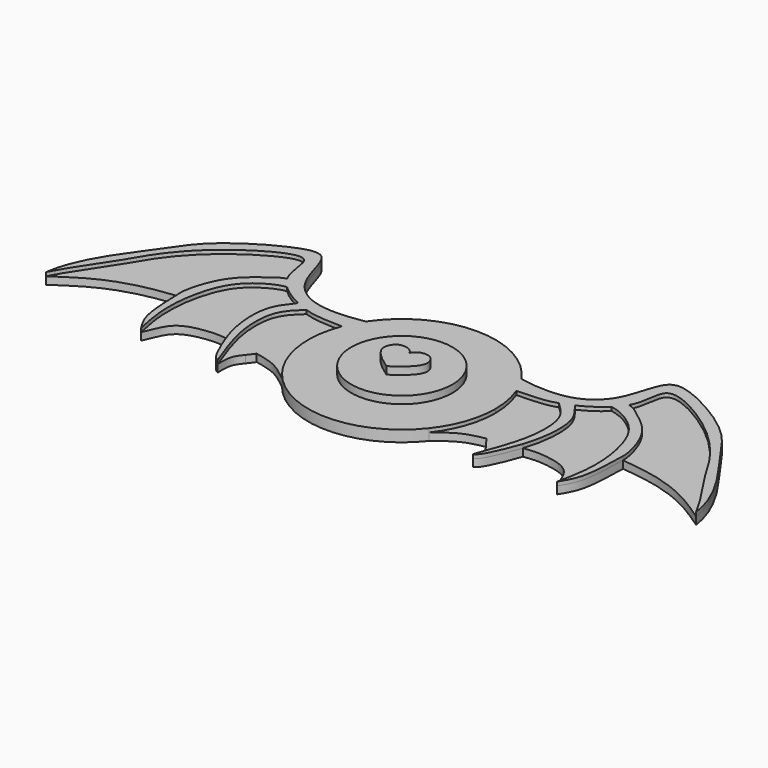
from build123d import *

# Parameters (mm, degrees)
F1_DEPTH = 3
F2_R     = 13.5064277213
F3_DEPTH = 5
F4_DEPTH = 2
F5_DEPTH = 3
F7_DEPTH = 2


with BuildPart() as f1:
    # F0 (on Top) → F1 (new body)
    with BuildSketch(Plane.XY):
        with BuildLine():
            ThreePointArc((-19.6218875172, -15.4913372651), (0, -25), (19.6218875172, -15.4913372651))
            add(Edge.make_bspline(
                [(20.7636337812, 13.92377507), (18.884492427, 12.8973675107), (13.2694896297, 9.830391573), (17.0839746859, -5.3747888898), (19.6218875172, -15.4913372651)],
                knots=[0, 0, 0, 0, 0.3346643665, 1, 1, 1, 1], degree=3))
            ThreePointArc((20.7636337812, 13.92377507), (0, 25), (-20.7636337812, 13.92377507))
            add(Edge.make_bspline(
                [(-20.7636337812, 13.92377507), (-18.884492427, 12.8973675107), (-13.2694896297, 9.830391573), (-17.0839746859, -5.3747888898), (-19.6218875172, -15.4913372651)],
                knots=[0, 0, 0, 0, 0.3346643665, 1, 1, 1, 1], degree=3))
        make_face()
        with BuildLine():
            ThreePointArc((19.6218875172, -15.4913372651), (23.61723087, -8.1991710578), (25, 0))
            ThreePointArc((25, 0), (24.5689951544, 4.6221723357), (23.2908418319, 9.0849703775))
            ThreePointArc((23.2908418319, 9.0849703775), (22.1597092287, 11.5735598197), (20.7636337812, 13.92377507))
            add(Edge.make_bspline(
                [(20.7636337812, 13.92377507), (18.884492427, 12.8973675107), (13.2694896297, 9.830391573), (17.0839746859, -5.3747888898), (19.6218875172, -15.4913372651)],
                knots=[0, 0, 0, 0, 0.3346643665, 1, 1, 1, 1], degree=3))
        make_face()
        with BuildLine():
            ThreePointArc((-23.2908418319, 9.0849703775), (-24.7259844978, -3.6912993126), (-19.6218875172, -15.4913372651))
            add(Edge.make_bspline(
                [(-20.7636337812, 13.92377507), (-18.884492427, 12.8973675107), (-13.2694896297, 9.830391573), (-17.0839746859, -5.3747888898), (-19.6218875172, -15.4913372651)],
                knots=[0, 0, 0, 0, 0.3346643665, 1, 1, 1, 1], degree=3))
            ThreePointArc((-20.7636337812, 13.92377507), (-22.1597092287, 11.5735598197), (-23.2908418319, 9.0849703775))
        make_face()
    extrude(amount=F1_DEPTH)

    # F2 (on Top) → F3 (join)
    with BuildSketch(Plane.XY):
        Circle(F2_R)
    extrude(amount=F3_DEPTH)

    # F0 (on Top) → F4 (join)
    with BuildSketch(Plane.XY):
        with BuildLine():
            ThreePointArc((20.7636337812, 13.92377507), (22.1597092287, 11.5735598197), (23.2908418319, 9.0849703775))
            add(Edge.make_bspline(
                [(23.2908418319, 9.0849703775), (27.8215143515, 9.3257680742), (30.2320226011, 9.1590800923), (33.7177366018, 10.2821364999)],
                knots=[0, 0, 0, 0, 0.1231403921, 0.1231403921, 0.1231403921, 0.1231403921], degree=3))
            add(Edge.make_bspline(
                [(33.7177366018, 10.2821364999), (34.7454077104, 10.6132401484), (35.866536795, 11.0564496893), (37.004531993, 11.5978625395)],
                knots=[0.1231403921, 0.1231403921, 0.1231403921, 0.1231403921, 0.1594450984, 0.1594450984, 0.1594450984, 0.1594450984], degree=3))
            add(Edge.make_bspline(
                [(37.004531993, 11.5978625395), (39.2474500295, 12.6649537267), (41.555886116, 14.1135251746), (43.3434300018, 15.8371345407)],
                knots=[0.1594450984, 0.1594450984, 0.1594450984, 0.1594450984, 0.2309994255, 0.2309994255, 0.2309994255, 0.2309994255], degree=3))
            add(Edge.make_bspline(
                [(43.3434300018, 15.8371345407), (44.2810928585, 16.7412603051), (45.0754287668, 17.7210645793), (45.641798526, 18.7611840665)],
                knots=[0.2309994255, 0.2309994255, 0.2309994255, 0.2309994255, 0.2685335165, 0.2685335165, 0.2685335165, 0.2685335165], degree=3))
            add(Edge.make_bspline(
                [(45.641798526, 18.7611840665), (47.3352689159, 21.8711868955), (46.777744727, 27.7747473366), (51.8560066338, 29.065553317), (66.3600577374, 20.2512677808), (74.7298542288, 9.6960609054), (77.7930462557, 3.5527051654), (84.7415977894, -6.1442317778), (86.8003591895, -10.2821364999)],
                knots=[0.2685335165, 0.2685335165, 0.2685335165, 0.2685335165, 0.3807620926, 0.4500912377, 0.6051903106, 0.7450551623, 0.8470726585, 1, 1, 1, 1], degree=3))
            add(Edge.make_bspline(
                [(20.7636337812, 13.92377507), (25.353260156, 13.083604301), (34.3722799665, 12.4739559617), (43.1666874947, 19.3658325346), (44.7883389447, 31.8865702273), (51.6235191398, 32.3410311281), (68.757647719, 22.5890249267), (75.2339965242, 11.4273433149), (85.5971213344, -1.5157287213), (86.8003591895, -10.2821364999)],
                knots=[0, 0, 0, 0, 0.1438051462, 0.2702269745, 0.4006587664, 0.4888335416, 0.6586500337, 0.8053535671, 1, 1, 1, 1], degree=3))
        make_face()
        with BuildLine():
            ThreePointArc((19.6218875172, -15.4913372651), (23.61723087, -8.1991710578), (25, 0))
            ThreePointArc((25, 0), (24.5689951544, 4.6221723357), (23.2908418319, 9.0849703775))
            ThreePointArc((23.2908418319, 9.0849703775), (22.1597092287, 11.5735598197), (20.7636337812, 13.92377507))
            add(Edge.make_bspline(
                [(20.7636337812, 13.92377507), (18.884492427, 12.8973675107), (13.2694896297, 9.830391573), (17.0839746859, -5.3747888898), (19.6218875172, -15.4913372651)],
                knots=[0, 0, 0, 0, 0.3346643665, 1, 1, 1, 1], degree=3))
        make_face()
        with BuildLine():
            ThreePointArc((23.2908418319, 9.0849703775), (24.5689951544, 4.6221723357), (25, 0))
            ThreePointArc((25, 0), (23.61723087, -8.1991710578), (19.6218875172, -15.4913372651))
            add(Edge.make_bspline(
                [(19.6218875172, -15.4913372651), (21.4152102231, -14.0609489213), (24.8604058768, -11.2746200768), (28.7928801922, -10.5001506768), (30.6888949126, -10.1227229461)],
                knots=[0, 0, 0, 0, 0.5172233423, 1, 1, 1, 1], degree=3))
            add(Edge.make_bspline(
                [(32.1116161516, -12.0142660523), (31.6373757386, -11.3837516835), (31.1631353256, -10.7532373148), (30.6888949126, -10.1227229461)],
                knots=[0, 0, 0, 0, 2.3668694612, 2.3668694612, 2.3668694612, 2.3668694612], degree=3))
            add(Edge.make_bspline(
                [(32.1116161516, -12.0142660523), (32.776720922, -12.8822985255), (34.1447409362, -14.3321949992), (34.1047637318, -17.2769145921), (34.0780636316, -18.8904348761)],
                knots=[0, 0, 0, 0, 0.4499025437, 1, 1, 1, 1], degree=3))
            add(Edge.make_bspline(
                [(33.7177366018, 10.2821364999), (35.3645415529, 8.7757476619), (38.884943387, 5.4848056386), (38.8140830901, -4.1284440887), (37.0736184249, -10.5819579136), (35.282158389, -15.8523198225), (34.0780636316, -18.8904348761)],
                knots=[0, 0, 0, 0, 0.2318500383, 0.4998701646, 0.7334854658, 1, 1, 1, 1], degree=3))
            add(Edge.make_bspline(
                [(23.2908418319, 9.0849703775), (27.8215143515, 9.3257680742), (30.2320226011, 9.1590800923), (33.7177366018, 10.2821364999)],
                knots=[0, 0, 0, 0, 0.1231403921, 0.1231403921, 0.1231403921, 0.1231403921], degree=3))
        make_face()
        with BuildLine():
            add(Edge.make_bspline(
                [(33.7177366018, 10.2821364999), (34.7454077104, 10.6132401484), (35.866536795, 11.0564496893), (37.004531993, 11.5978625395)],
                knots=[0.1231403921, 0.1231403921, 0.1231403921, 0.1231403921, 0.1594450984, 0.1594450984, 0.1594450984, 0.1594450984], degree=3))
            add(Edge.make_bspline(
                [(33.7177366018, 10.2821364999), (35.3645415529, 8.7757476619), (38.884943387, 5.4848056386), (38.8140830901, -4.1284440887), (37.0736184249, -10.5819579136), (35.282158389, -15.8523198225), (34.0780636316, -18.8904348761)],
                knots=[0, 0, 0, 0, 0.2318500383, 0.4998701646, 0.7334854658, 1, 1, 1, 1], degree=3))
            add(Edge.make_bspline(
                [(39.3599004471, -8.7854920866), (38.7249404903, -10.7452749087), (37.0180617267, -14.9012626381), (35.2493275964, -18.5335928874), (34.0780636316, -18.8904348761)],
                knots=[0.6277129418, 0.6277129418, 0.6277129418, 0.6277129418, 0.792816444, 1, 1, 1, 1], degree=3))
            add(Edge.make_bspline(
                [(37.004531993, 11.5978625395), (38.0800679502, 10.0046793736), (41.3336069296, 6.7268291074), (41.1834657071, -2.2502985215), (39.8295408824, -7.3359624778), (39.3599004471, -8.7854920866)],
                knots=[0, 0, 0, 0, 0.2173363693, 0.5055961378, 0.6277129418, 0.6277129418, 0.6277129418, 0.6277129418], degree=3))
        make_face()
        with BuildLine():
            add(Edge.make_bspline(
                [(37.004531993, 11.5978625395), (39.2474500295, 12.6649537267), (41.555886116, 14.1135251746), (43.3434300018, 15.8371345407)],
                knots=[0.1594450984, 0.1594450984, 0.1594450984, 0.1594450984, 0.2309994255, 0.2309994255, 0.2309994255, 0.2309994255], degree=3))
            add(Edge.make_bspline(
                [(37.004531993, 11.5978625395), (38.0800679502, 10.0046793736), (41.3336069296, 6.7268291074), (41.1834657071, -2.2502985215), (39.8295408824, -7.3359624778), (39.3599004471, -8.7854920866)],
                knots=[0, 0, 0, 0, 0.2173363693, 0.5055961378, 0.6277129418, 0.6277129418, 0.6277129418, 0.6277129418], degree=3))
            add(Edge.make_bspline(
                [(55.5573105812, -17.6151320338), (54.4439075888, -14.9875635555), (52.9703835571, -10.411043477), (46.6717355198, -8.6507292972), (42.2245726074, -8.3797506367), (40.2332096515, -8.6600986878), (39.3599004471, -8.7854920866)],
                knots=[0, 0, 0, 0, 0.3047383368, 0.5764576192, 0.8133522424, 1, 1, 1, 1], degree=3))
            add(Edge.make_bspline(
                [(43.3434300018, 15.8371345407), (45.3565623966, 15.5676262825), (49.9854795603, 13.2408710445), (54.5376514308, 8.1613285539), (57.1013516863, -1.3778788699), (57.1238501467, -10.2186225385), (56.0702038202, -15.2273425566), (55.5573105812, -17.6151320338)],
                knots=[0, 0, 0, 0, 0.1860076727, 0.3714288806, 0.5926344587, 0.8055769314, 1, 1, 1, 1], degree=3))
        make_face()
        with BuildLine():
            add(Edge.make_bspline(
                [(45.641798526, 18.7611840665), (47.0236524725, 18.4958354205), (50.5733406235, 15.7663353525), (56.3104736797, 11.1079119823), (58.8622688049, 3.2726876511), (59.0809752339, 0.6245344364), (59.0938226065, 0)],
                knots=[0, 0, 0, 0, 0.146943127, 0.3231645985, 0.5131967694, 0.5724247553, 0.5724247553, 0.5724247553, 0.5724247553], degree=3))
            add(Edge.make_bspline(
                [(43.3434300018, 15.8371345407), (44.2810928585, 16.7412603051), (45.0754287668, 17.7210645793), (45.641798526, 18.7611840665)],
                knots=[0.2309994255, 0.2309994255, 0.2309994255, 0.2309994255, 0.2685335165, 0.2685335165, 0.2685335165, 0.2685335165], degree=3))
            add(Edge.make_bspline(
                [(43.3434300018, 15.8371345407), (45.3565623966, 15.5676262825), (49.9854795603, 13.2408710445), (54.5376514308, 8.1613285539), (57.1013516863, -1.3778788699), (57.1238501467, -10.2186225385), (56.0702038202, -15.2273425566), (55.5573105812, -17.6151320338)],
                knots=[0, 0, 0, 0, 0.1860076727, 0.3714288806, 0.5926344587, 0.8055769314, 1, 1, 1, 1], degree=3))
            add(Edge.make_bspline(
                [(59.0938226065, 0), (59.1104927586, -0.8103667818), (58.9358631638, -3.6588287886), (58.782367202, -12.4944121501), (56.5431938855, -16.0569735079), (55.5573105812, -17.6151320338)],
                knots=[0.5724247553, 0.5724247553, 0.5724247553, 0.5724247553, 0.6492762299, 0.8452276156, 1, 1, 1, 1], degree=3))
        make_face()
        with BuildLine():
            add(Edge.make_bspline(
                [(59.0938226065, 0), (62.0265888913, -0.341290779), (68.0943487487, -1.0474058551), (78.0033682979, -4.2880779786), (83.850491985, -8.272167765), (86.8003591895, -10.2821364999)],
                knots=[0, 0, 0, 0, 0.3167243267, 0.6552882052, 1, 1, 1, 1], degree=3))
            add(Edge.make_bspline(
                [(45.641798526, 18.7611840665), (47.3352689159, 21.8711868955), (46.777744727, 27.7747473366), (51.8560066338, 29.065553317), (66.3600577374, 20.2512677808), (74.7298542288, 9.6960609054), (77.7930462557, 3.5527051654), (84.7415977894, -6.1442317778), (86.8003591895, -10.2821364999)],
                knots=[0.2685335165, 0.2685335165, 0.2685335165, 0.2685335165, 0.3807620926, 0.4500912377, 0.6051903106, 0.7450551623, 0.8470726585, 1, 1, 1, 1], degree=3))
            add(Edge.make_bspline(
                [(45.641798526, 18.7611840665), (47.0236524725, 18.4958354205), (50.5733406235, 15.7663353525), (56.3104736797, 11.1079119823), (58.8622688049, 3.2726876511), (59.0809752339, 0.6245344364), (59.0938226065, 0)],
                knots=[0, 0, 0, 0, 0.146943127, 0.3231645985, 0.5131967694, 0.5724247553, 0.5724247553, 0.5724247553, 0.5724247553], degree=3))
        make_face()
        with BuildLine():
            add(Edge.make_bspline(
                [(-19.6218875172, -15.4913372651), (-21.4152102231, -14.0609489213), (-24.8604058768, -11.2746200768), (-28.7928801922, -10.5001506768), (-30.6888949126, -10.1227229461)],
                knots=[0, 0, 0, 0, 0.5172233423, 1, 1, 1, 1], degree=3))
            ThreePointArc((-19.6218875172, -15.4913372651), (-24.7259844978, -3.6912993126), (-23.2908418319, 9.0849703775))
            add(Edge.make_bspline(
                [(-23.2908418319, 9.0849703775), (-27.8215143515, 9.3257680742), (-30.2320226011, 9.1590800923), (-33.7177366018, 10.2821364999)],
                knots=[0, 0, 0, 0, 0.1231403921, 0.1231403921, 0.1231403921, 0.1231403921], degree=3))
            add(Edge.make_bspline(
                [(-33.7177366018, 10.2821364999), (-35.3645415529, 8.7757476619), (-38.884943387, 5.4848056386), (-38.8140830901, -4.1284440887), (-37.0736184249, -10.5819579136), (-35.282158389, -15.8523198225), (-34.0780636316, -18.8904348761)],
                knots=[0, 0, 0, 0, 0.2318500383, 0.4998701646, 0.7334854658, 1, 1, 1, 1], degree=3))
            add(Edge.make_bspline(
                [(-32.1116161516, -12.0142660523), (-32.776720922, -12.8822985255), (-34.1447409362, -14.3321949992), (-34.1047637318, -17.2769145921), (-34.0780636316, -18.8904348761)],
                knots=[0, 0, 0, 0, 0.4499025437, 1, 1, 1, 1], degree=3))
            add(Edge.make_bspline(
                [(-32.1116161516, -12.0142660523), (-31.6373757386, -11.3837516835), (-31.1631353256, -10.7532373148), (-30.6888949126, -10.1227229461)],
                knots=[0, 0, 0, 0, 2.3668694612, 2.3668694612, 2.3668694612, 2.3668694612], degree=3))
        make_face()
        with BuildLine():
            add(Edge.make_bspline(
                [(-37.004531993, 11.5978625395), (-38.0800679502, 10.0046793736), (-41.3336069296, 6.7268291074), (-41.1834657071, -2.2502985215), (-39.8295408824, -7.3359624778), (-39.3599004471, -8.7854920866)],
                knots=[0, 0, 0, 0, 0.2173363693, 0.5055961378, 0.6277129418, 0.6277129418, 0.6277129418, 0.6277129418], degree=3))
            add(Edge.make_bspline(
                [(-37.004531993, 11.5978625395), (-39.2474500295, 12.6649537267), (-41.555886116, 14.1135251746), (-43.3434300018, 15.8371345407)],
                knots=[0.1594450984, 0.1594450984, 0.1594450984, 0.1594450984, 0.2309994255, 0.2309994255, 0.2309994255, 0.2309994255], degree=3))
            add(Edge.make_bspline(
                [(-43.3434300018, 15.8371345407), (-45.3565623966, 15.5676262825), (-49.9854795603, 13.2408710445), (-54.5376514308, 8.1613285539), (-57.1013516863, -1.3778788699), (-57.1238501467, -10.2186225385), (-56.0702038202, -15.2273425566), (-55.5573105812, -17.6151320338)],
                knots=[0, 0, 0, 0, 0.1860076727, 0.3714288806, 0.5926344587, 0.8055769314, 1, 1, 1, 1], degree=3))
            add(Edge.make_bspline(
                [(-55.5573105812, -17.6151320338), (-54.4439075888, -14.9875635555), (-52.9703835571, -10.411043477), (-46.6717355198, -8.6507292972), (-42.2245726074, -8.3797506367), (-40.2332096515, -8.6600986878), (-39.3599004471, -8.7854920866)],
                knots=[0, 0, 0, 0, 0.3047383368, 0.5764576192, 0.8133522424, 1, 1, 1, 1], degree=3))
        make_face()
        with BuildLine():
            add(Edge.make_bspline(
                [(-33.7177366018, 10.2821364999), (-35.3645415529, 8.7757476619), (-38.884943387, 5.4848056386), (-38.8140830901, -4.1284440887), (-37.0736184249, -10.5819579136), (-35.282158389, -15.8523198225), (-34.0780636316, -18.8904348761)],
                knots=[0, 0, 0, 0, 0.2318500383, 0.4998701646, 0.7334854658, 1, 1, 1, 1], degree=3))
            add(Edge.make_bspline(
                [(-33.7177366018, 10.2821364999), (-34.7454077104, 10.6132401484), (-35.866536795, 11.0564496893), (-37.004531993, 11.5978625395)],
                knots=[0.1231403921, 0.1231403921, 0.1231403921, 0.1231403921, 0.1594450984, 0.1594450984, 0.1594450984, 0.1594450984], degree=3))
            add(Edge.make_bspline(
                [(-37.004531993, 11.5978625395), (-38.0800679502, 10.0046793736), (-41.3336069296, 6.7268291074), (-41.1834657071, -2.2502985215), (-39.8295408824, -7.3359624778), (-39.3599004471, -8.7854920866)],
                knots=[0, 0, 0, 0, 0.2173363693, 0.5055961378, 0.6277129418, 0.6277129418, 0.6277129418, 0.6277129418], degree=3))
            add(Edge.make_bspline(
                [(-39.3599004471, -8.7854920866), (-38.7249404903, -10.7452749087), (-37.0180617267, -14.9012626381), (-35.2493275964, -18.5335928874), (-34.0780636316, -18.8904348761)],
                knots=[0.6277129418, 0.6277129418, 0.6277129418, 0.6277129418, 0.792816444, 1, 1, 1, 1], degree=3))
        make_face()
        with BuildLine():
            ThreePointArc((-23.2908418319, 9.0849703775), (-22.1597092287, 11.5735598197), (-20.7636337812, 13.92377507))
            add(Edge.make_bspline(
                [(-20.7636337812, 13.92377507), (-25.353260156, 13.083604301), (-34.3722799665, 12.4739559617), (-43.1666874947, 19.3658325346), (-44.7883389447, 31.8865702273), (-51.6235191398, 32.3410311281), (-68.757647719, 22.5890249267), (-75.2339965242, 11.4273433149), (-85.5971213344, -1.5157287213), (-86.8003591895, -10.2821364999)],
                knots=[0, 0, 0, 0, 0.1438051462, 0.2702269745, 0.4006587664, 0.4888335416, 0.6586500337, 0.8053535671, 1, 1, 1, 1], degree=3))
            add(Edge.make_bspline(
                [(-45.641798526, 18.7611840665), (-47.3352689159, 21.8711868955), (-46.777744727, 27.7747473366), (-51.8560066338, 29.065553317), (-66.3600577374, 20.2512677808), (-74.7298542288, 9.6960609054), (-77.7930462557, 3.5527051654), (-84.7415977894, -6.1442317778), (-86.8003591895, -10.2821364999)],
                knots=[0.2685335165, 0.2685335165, 0.2685335165, 0.2685335165, 0.3807620926, 0.4500912377, 0.6051903106, 0.7450551623, 0.8470726585, 1, 1, 1, 1], degree=3))
            add(Edge.make_bspline(
                [(-43.3434300018, 15.8371345407), (-44.2810928585, 16.7412603051), (-45.0754287668, 17.7210645793), (-45.641798526, 18.7611840665)],
                knots=[0.2309994255, 0.2309994255, 0.2309994255, 0.2309994255, 0.2685335165, 0.2685335165, 0.2685335165, 0.2685335165], degree=3))
            add(Edge.make_bspline(
                [(-37.004531993, 11.5978625395), (-39.2474500295, 12.6649537267), (-41.555886116, 14.1135251746), (-43.3434300018, 15.8371345407)],
                knots=[0.1594450984, 0.1594450984, 0.1594450984, 0.1594450984, 0.2309994255, 0.2309994255, 0.2309994255, 0.2309994255], degree=3))
            add(Edge.make_bspline(
                [(-33.7177366018, 10.2821364999), (-34.7454077104, 10.6132401484), (-35.866536795, 11.0564496893), (-37.004531993, 11.5978625395)],
                knots=[0.1231403921, 0.1231403921, 0.1231403921, 0.1231403921, 0.1594450984, 0.1594450984, 0.1594450984, 0.1594450984], degree=3))
            add(Edge.make_bspline(
                [(-23.2908418319, 9.0849703775), (-27.8215143515, 9.3257680742), (-30.2320226011, 9.1590800923), (-33.7177366018, 10.2821364999)],
                knots=[0, 0, 0, 0, 0.1231403921, 0.1231403921, 0.1231403921, 0.1231403921], degree=3))
        make_face()
        with BuildLine():
            add(Edge.make_bspline(
                [(-45.641798526, 18.7611840665), (-47.3352689159, 21.8711868955), (-46.777744727, 27.7747473366), (-51.8560066338, 29.065553317), (-66.3600577374, 20.2512677808), (-74.7298542288, 9.6960609054), (-77.7930462557, 3.5527051654), (-84.7415977894, -6.1442317778), (-86.8003591895, -10.2821364999)],
                knots=[0.2685335165, 0.2685335165, 0.2685335165, 0.2685335165, 0.3807620926, 0.4500912377, 0.6051903106, 0.7450551623, 0.8470726585, 1, 1, 1, 1], degree=3))
            add(Edge.make_bspline(
                [(-59.0938226065, 0), (-62.0265888913, -0.341290779), (-68.0943487487, -1.0474058551), (-78.0033682979, -4.2880779786), (-83.850491985, -8.272167765), (-86.8003591895, -10.2821364999)],
                knots=[0, 0, 0, 0, 0.3167243267, 0.6552882052, 1, 1, 1, 1], degree=3))
            add(Edge.make_bspline(
                [(-45.641798526, 18.7611840665), (-47.0236524725, 18.4958354205), (-50.5733406235, 15.7663353525), (-56.3104736797, 11.1079119823), (-58.8622688049, 3.2726876511), (-59.0809752339, 0.6245344364), (-59.0938226065, 0)],
                knots=[0, 0, 0, 0, 0.146943127, 0.3231645985, 0.5131967694, 0.5724247553, 0.5724247553, 0.5724247553, 0.5724247553], degree=3))
        make_face()
        with BuildLine():
            add(Edge.make_bspline(
                [(-43.3434300018, 15.8371345407), (-44.2810928585, 16.7412603051), (-45.0754287668, 17.7210645793), (-45.641798526, 18.7611840665)],
                knots=[0.2309994255, 0.2309994255, 0.2309994255, 0.2309994255, 0.2685335165, 0.2685335165, 0.2685335165, 0.2685335165], degree=3))
            add(Edge.make_bspline(
                [(-45.641798526, 18.7611840665), (-47.0236524725, 18.4958354205), (-50.5733406235, 15.7663353525), (-56.3104736797, 11.1079119823), (-58.8622688049, 3.2726876511), (-59.0809752339, 0.6245344364), (-59.0938226065, 0)],
                knots=[0, 0, 0, 0, 0.146943127, 0.3231645985, 0.5131967694, 0.5724247553, 0.5724247553, 0.5724247553, 0.5724247553], degree=3))
            add(Edge.make_bspline(
                [(-59.0938226065, 0), (-59.1104927586, -0.8103667818), (-58.9358631638, -3.6588287886), (-58.782367202, -12.4944121501), (-56.5431938855, -16.0569735079), (-55.5573105812, -17.6151320338)],
                knots=[0.5724247553, 0.5724247553, 0.5724247553, 0.5724247553, 0.6492762299, 0.8452276156, 1, 1, 1, 1], degree=3))
            add(Edge.make_bspline(
                [(-43.3434300018, 15.8371345407), (-45.3565623966, 15.5676262825), (-49.9854795603, 13.2408710445), (-54.5376514308, 8.1613285539), (-57.1013516863, -1.3778788699), (-57.1238501467, -10.2186225385), (-56.0702038202, -15.2273425566), (-55.5573105812, -17.6151320338)],
                knots=[0, 0, 0, 0, 0.1860076727, 0.3714288806, 0.5926344587, 0.8055769314, 1, 1, 1, 1], degree=3))
        make_face()
        with BuildLine():
            ThreePointArc((-23.2908418319, 9.0849703775), (-24.7259844978, -3.6912993126), (-19.6218875172, -15.4913372651))
            add(Edge.make_bspline(
                [(-20.7636337812, 13.92377507), (-18.884492427, 12.8973675107), (-13.2694896297, 9.830391573), (-17.0839746859, -5.3747888898), (-19.6218875172, -15.4913372651)],
                knots=[0, 0, 0, 0, 0.3346643665, 1, 1, 1, 1], degree=3))
            ThreePointArc((-20.7636337812, 13.92377507), (-22.1597092287, 11.5735598197), (-23.2908418319, 9.0849703775))
        make_face()
    extrude(amount=F4_DEPTH)

    # F0 (on Top) → F5 (join)
    with BuildSketch(Plane.XY):
        with BuildLine():
            ThreePointArc((20.7636337812, 13.92377507), (22.1597092287, 11.5735598197), (23.2908418319, 9.0849703775))
            add(Edge.make_bspline(
                [(23.2908418319, 9.0849703775), (27.8215143515, 9.3257680742), (30.2320226011, 9.1590800923), (33.7177366018, 10.2821364999)],
                knots=[0, 0, 0, 0, 0.1231403921, 0.1231403921, 0.1231403921, 0.1231403921], degree=3))
            add(Edge.make_bspline(
                [(33.7177366018, 10.2821364999), (34.7454077104, 10.6132401484), (35.866536795, 11.0564496893), (37.004531993, 11.5978625395)],
                knots=[0.1231403921, 0.1231403921, 0.1231403921, 0.1231403921, 0.1594450984, 0.1594450984, 0.1594450984, 0.1594450984], degree=3))
            add(Edge.make_bspline(
                [(37.004531993, 11.5978625395), (39.2474500295, 12.6649537267), (41.555886116, 14.1135251746), (43.3434300018, 15.8371345407)],
                knots=[0.1594450984, 0.1594450984, 0.1594450984, 0.1594450984, 0.2309994255, 0.2309994255, 0.2309994255, 0.2309994255], degree=3))
            add(Edge.make_bspline(
                [(43.3434300018, 15.8371345407), (44.2810928585, 16.7412603051), (45.0754287668, 17.7210645793), (45.641798526, 18.7611840665)],
                knots=[0.2309994255, 0.2309994255, 0.2309994255, 0.2309994255, 0.2685335165, 0.2685335165, 0.2685335165, 0.2685335165], degree=3))
            add(Edge.make_bspline(
                [(45.641798526, 18.7611840665), (47.3352689159, 21.8711868955), (46.777744727, 27.7747473366), (51.8560066338, 29.065553317), (66.3600577374, 20.2512677808), (74.7298542288, 9.6960609054), (77.7930462557, 3.5527051654), (84.7415977894, -6.1442317778), (86.8003591895, -10.2821364999)],
                knots=[0.2685335165, 0.2685335165, 0.2685335165, 0.2685335165, 0.3807620926, 0.4500912377, 0.6051903106, 0.7450551623, 0.8470726585, 1, 1, 1, 1], degree=3))
            add(Edge.make_bspline(
                [(20.7636337812, 13.92377507), (25.353260156, 13.083604301), (34.3722799665, 12.4739559617), (43.1666874947, 19.3658325346), (44.7883389447, 31.8865702273), (51.6235191398, 32.3410311281), (68.757647719, 22.5890249267), (75.2339965242, 11.4273433149), (85.5971213344, -1.5157287213), (86.8003591895, -10.2821364999)],
                knots=[0, 0, 0, 0, 0.1438051462, 0.2702269745, 0.4006587664, 0.4888335416, 0.6586500337, 0.8053535671, 1, 1, 1, 1], degree=3))
        make_face()
        with BuildLine():
            add(Edge.make_bspline(
                [(33.7177366018, 10.2821364999), (34.7454077104, 10.6132401484), (35.866536795, 11.0564496893), (37.004531993, 11.5978625395)],
                knots=[0.1231403921, 0.1231403921, 0.1231403921, 0.1231403921, 0.1594450984, 0.1594450984, 0.1594450984, 0.1594450984], degree=3))
            add(Edge.make_bspline(
                [(33.7177366018, 10.2821364999), (35.3645415529, 8.7757476619), (38.884943387, 5.4848056386), (38.8140830901, -4.1284440887), (37.0736184249, -10.5819579136), (35.282158389, -15.8523198225), (34.0780636316, -18.8904348761)],
                knots=[0, 0, 0, 0, 0.2318500383, 0.4998701646, 0.7334854658, 1, 1, 1, 1], degree=3))
            add(Edge.make_bspline(
                [(39.3599004471, -8.7854920866), (38.7249404903, -10.7452749087), (37.0180617267, -14.9012626381), (35.2493275964, -18.5335928874), (34.0780636316, -18.8904348761)],
                knots=[0.6277129418, 0.6277129418, 0.6277129418, 0.6277129418, 0.792816444, 1, 1, 1, 1], degree=3))
            add(Edge.make_bspline(
                [(37.004531993, 11.5978625395), (38.0800679502, 10.0046793736), (41.3336069296, 6.7268291074), (41.1834657071, -2.2502985215), (39.8295408824, -7.3359624778), (39.3599004471, -8.7854920866)],
                knots=[0, 0, 0, 0, 0.2173363693, 0.5055961378, 0.6277129418, 0.6277129418, 0.6277129418, 0.6277129418], degree=3))
        make_face()
        with BuildLine():
            add(Edge.make_bspline(
                [(45.641798526, 18.7611840665), (47.0236524725, 18.4958354205), (50.5733406235, 15.7663353525), (56.3104736797, 11.1079119823), (58.8622688049, 3.2726876511), (59.0809752339, 0.6245344364), (59.0938226065, 0)],
                knots=[0, 0, 0, 0, 0.146943127, 0.3231645985, 0.5131967694, 0.5724247553, 0.5724247553, 0.5724247553, 0.5724247553], degree=3))
            add(Edge.make_bspline(
                [(43.3434300018, 15.8371345407), (44.2810928585, 16.7412603051), (45.0754287668, 17.7210645793), (45.641798526, 18.7611840665)],
                knots=[0.2309994255, 0.2309994255, 0.2309994255, 0.2309994255, 0.2685335165, 0.2685335165, 0.2685335165, 0.2685335165], degree=3))
            add(Edge.make_bspline(
                [(43.3434300018, 15.8371345407), (45.3565623966, 15.5676262825), (49.9854795603, 13.2408710445), (54.5376514308, 8.1613285539), (57.1013516863, -1.3778788699), (57.1238501467, -10.2186225385), (56.0702038202, -15.2273425566), (55.5573105812, -17.6151320338)],
                knots=[0, 0, 0, 0, 0.1860076727, 0.3714288806, 0.5926344587, 0.8055769314, 1, 1, 1, 1], degree=3))
            add(Edge.make_bspline(
                [(59.0938226065, 0), (59.1104927586, -0.8103667818), (58.9358631638, -3.6588287886), (58.782367202, -12.4944121501), (56.5431938855, -16.0569735079), (55.5573105812, -17.6151320338)],
                knots=[0.5724247553, 0.5724247553, 0.5724247553, 0.5724247553, 0.6492762299, 0.8452276156, 1, 1, 1, 1], degree=3))
        make_face()
        with BuildLine():
            ThreePointArc((-23.2908418319, 9.0849703775), (-22.1597092287, 11.5735598197), (-20.7636337812, 13.92377507))
            add(Edge.make_bspline(
                [(-20.7636337812, 13.92377507), (-25.353260156, 13.083604301), (-34.3722799665, 12.4739559617), (-43.1666874947, 19.3658325346), (-44.7883389447, 31.8865702273), (-51.6235191398, 32.3410311281), (-68.757647719, 22.5890249267), (-75.2339965242, 11.4273433149), (-85.5971213344, -1.5157287213), (-86.8003591895, -10.2821364999)],
                knots=[0, 0, 0, 0, 0.1438051462, 0.2702269745, 0.4006587664, 0.4888335416, 0.6586500337, 0.8053535671, 1, 1, 1, 1], degree=3))
            add(Edge.make_bspline(
                [(-45.641798526, 18.7611840665), (-47.3352689159, 21.8711868955), (-46.777744727, 27.7747473366), (-51.8560066338, 29.065553317), (-66.3600577374, 20.2512677808), (-74.7298542288, 9.6960609054), (-77.7930462557, 3.5527051654), (-84.7415977894, -6.1442317778), (-86.8003591895, -10.2821364999)],
                knots=[0.2685335165, 0.2685335165, 0.2685335165, 0.2685335165, 0.3807620926, 0.4500912377, 0.6051903106, 0.7450551623, 0.8470726585, 1, 1, 1, 1], degree=3))
            add(Edge.make_bspline(
                [(-43.3434300018, 15.8371345407), (-44.2810928585, 16.7412603051), (-45.0754287668, 17.7210645793), (-45.641798526, 18.7611840665)],
                knots=[0.2309994255, 0.2309994255, 0.2309994255, 0.2309994255, 0.2685335165, 0.2685335165, 0.2685335165, 0.2685335165], degree=3))
            add(Edge.make_bspline(
                [(-37.004531993, 11.5978625395), (-39.2474500295, 12.6649537267), (-41.555886116, 14.1135251746), (-43.3434300018, 15.8371345407)],
                knots=[0.1594450984, 0.1594450984, 0.1594450984, 0.1594450984, 0.2309994255, 0.2309994255, 0.2309994255, 0.2309994255], degree=3))
            add(Edge.make_bspline(
                [(-33.7177366018, 10.2821364999), (-34.7454077104, 10.6132401484), (-35.866536795, 11.0564496893), (-37.004531993, 11.5978625395)],
                knots=[0.1231403921, 0.1231403921, 0.1231403921, 0.1231403921, 0.1594450984, 0.1594450984, 0.1594450984, 0.1594450984], degree=3))
            add(Edge.make_bspline(
                [(-23.2908418319, 9.0849703775), (-27.8215143515, 9.3257680742), (-30.2320226011, 9.1590800923), (-33.7177366018, 10.2821364999)],
                knots=[0, 0, 0, 0, 0.1231403921, 0.1231403921, 0.1231403921, 0.1231403921], degree=3))
        make_face()
        with BuildLine():
            add(Edge.make_bspline(
                [(-33.7177366018, 10.2821364999), (-35.3645415529, 8.7757476619), (-38.884943387, 5.4848056386), (-38.8140830901, -4.1284440887), (-37.0736184249, -10.5819579136), (-35.282158389, -15.8523198225), (-34.0780636316, -18.8904348761)],
                knots=[0, 0, 0, 0, 0.2318500383, 0.4998701646, 0.7334854658, 1, 1, 1, 1], degree=3))
            add(Edge.make_bspline(
                [(-33.7177366018, 10.2821364999), (-34.7454077104, 10.6132401484), (-35.866536795, 11.0564496893), (-37.004531993, 11.5978625395)],
                knots=[0.1231403921, 0.1231403921, 0.1231403921, 0.1231403921, 0.1594450984, 0.1594450984, 0.1594450984, 0.1594450984], degree=3))
            add(Edge.make_bspline(
                [(-37.004531993, 11.5978625395), (-38.0800679502, 10.0046793736), (-41.3336069296, 6.7268291074), (-41.1834657071, -2.2502985215), (-39.8295408824, -7.3359624778), (-39.3599004471, -8.7854920866)],
                knots=[0, 0, 0, 0, 0.2173363693, 0.5055961378, 0.6277129418, 0.6277129418, 0.6277129418, 0.6277129418], degree=3))
            add(Edge.make_bspline(
                [(-39.3599004471, -8.7854920866), (-38.7249404903, -10.7452749087), (-37.0180617267, -14.9012626381), (-35.2493275964, -18.5335928874), (-34.0780636316, -18.8904348761)],
                knots=[0.6277129418, 0.6277129418, 0.6277129418, 0.6277129418, 0.792816444, 1, 1, 1, 1], degree=3))
        make_face()
        with BuildLine():
            add(Edge.make_bspline(
                [(-43.3434300018, 15.8371345407), (-44.2810928585, 16.7412603051), (-45.0754287668, 17.7210645793), (-45.641798526, 18.7611840665)],
                knots=[0.2309994255, 0.2309994255, 0.2309994255, 0.2309994255, 0.2685335165, 0.2685335165, 0.2685335165, 0.2685335165], degree=3))
            add(Edge.make_bspline(
                [(-45.641798526, 18.7611840665), (-47.0236524725, 18.4958354205), (-50.5733406235, 15.7663353525), (-56.3104736797, 11.1079119823), (-58.8622688049, 3.2726876511), (-59.0809752339, 0.6245344364), (-59.0938226065, 0)],
                knots=[0, 0, 0, 0, 0.146943127, 0.3231645985, 0.5131967694, 0.5724247553, 0.5724247553, 0.5724247553, 0.5724247553], degree=3))
            add(Edge.make_bspline(
                [(-59.0938226065, 0), (-59.1104927586, -0.8103667818), (-58.9358631638, -3.6588287886), (-58.782367202, -12.4944121501), (-56.5431938855, -16.0569735079), (-55.5573105812, -17.6151320338)],
                knots=[0.5724247553, 0.5724247553, 0.5724247553, 0.5724247553, 0.6492762299, 0.8452276156, 1, 1, 1, 1], degree=3))
            add(Edge.make_bspline(
                [(-43.3434300018, 15.8371345407), (-45.3565623966, 15.5676262825), (-49.9854795603, 13.2408710445), (-54.5376514308, 8.1613285539), (-57.1013516863, -1.3778788699), (-57.1238501467, -10.2186225385), (-56.0702038202, -15.2273425566), (-55.5573105812, -17.6151320338)],
                knots=[0, 0, 0, 0, 0.1860076727, 0.3714288806, 0.5926344587, 0.8055769314, 1, 1, 1, 1], degree=3))
        make_face()
    extrude(amount=F5_DEPTH)

    # F6 (on face) → F7 (join)
    with BuildSketch(Plane.XY.offset(5)):
        with BuildLine():
            add(Edge.make_bspline(
                [(0, 2.5627594441), (0.3713491606, 3.2004115637), (1.3030946309, 4.1748766312), (4.5424422124, 4.5508958573), (6.7018800161, 0.7320653912), (3.0808820938, -3.0351484952), (1.090913521, -4.3643188649), (0, -5.1289156545)],
                knots=[0, 0, 0, 0, 0.1572489867, 0.341052242, 0.543275427, 0.781305903, 1, 1, 1, 1], degree=3))
            add(Edge.make_bspline(
                [(0, 2.5627594441), (-0.3713491606, 3.2004115637), (-1.3030946309, 4.1748766312), (-4.5424422124, 4.5508958573), (-6.7018800161, 0.7320653912), (-3.0808820938, -3.0351484952), (-1.090913521, -4.3643188649), (0, -5.1289156545)],
                knots=[0, 0, 0, 0, 0.1572489867, 0.341052242, 0.543275427, 0.781305903, 1, 1, 1, 1], degree=3))
        make_face()
    extrude(amount=F7_DEPTH)


solid = f1.part
